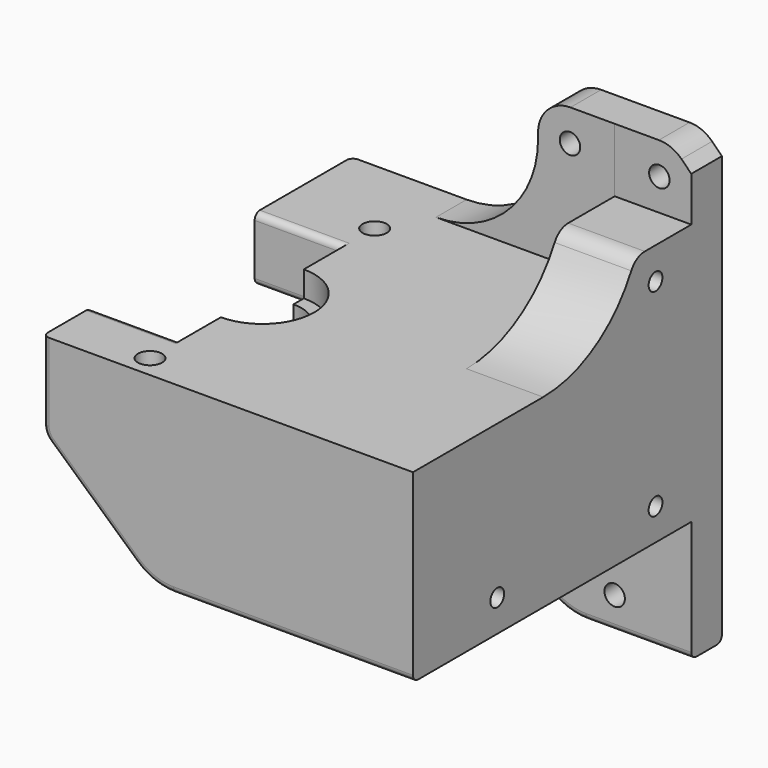
from build123d import *

# Parameters (mm, degrees)
PAD_DEPTH       = 70
POCKET_DEPTH    = 22
SKETCH008_W     = 61.659011
SKETCH008_H     = 41.462551
SKETCH008_W_2   = 60.331963
SKETCH008_H_2   = 13.684097
POCKET001_DEPTH = 76
SKETCH003_R     = 1.9
POCKET002_DEPTH = 12
POCKET003_DEPTH = 4
POCKET004_DEPTH = 6
SKETCH009_R     = 1.35
POCKET005_DEPTH = 10
SKETCH030_W     = 28.769002
SKETCH030_H     = 32
POCKET006_DEPTH = 48.001
SKETCH031_W     = 46.619307
SKETCH031_H     = 35.048725
POCKET007_DEPTH = 36
SKETCH032_R     = 1.9
POCKET008_DEPTH = 10
SKETCH013_R     = 1.9
POCKET009_DEPTH = 16
SKETCH010_R     = 1.6
POCKET010_DEPTH = 7
POCKET011_DEPTH = 60.501
POCKET012_DEPTH = 12.001
FILLET_R        = 3
CHAMFER_SIZE    = 3
FILLET001_R     = 5
FILLET002_R     = 9
FILLET003_R     = 0.7
FILLET004_R     = 1
FILLET005_R     = 1
FILLET006_R     = 3
FILLET007_R     = 1
FILLET008_R     = 1
CHAMFER001_SIZE = 13
FILLET009_R     = 1
FILLET010_R     = 16


with BuildPart() as part:
    # Sketch → Pad (new body)
    with BuildSketch(Plane.XY):
        Polygon((0, 0), (44, 0), (44, -60.5), (-14, -60.5), (-14, 0), align=None)
    extrude(amount=PAD_DEPTH)

    # Sketch002 (on Face7 of Pad) → Pocket (cut)
    with BuildSketch(Plane.XY.offset(70)):
        Polygon((32, -6), (32, -65.096024), (-40.783405, -65.096024), (-40.783405, 12.994774), (20, 12.994774), (20, -6), align=None)
    extrude(amount=-POCKET_DEPTH, mode=Mode.SUBTRACT)

    # Sketch008 (on Face3 of Pocket) → Pocket001 (cut)
    with BuildSketch(Plane.YZ.offset(44)):
        with Locations((-36.829505, -1.731275)):
            Rectangle(SKETCH008_W, SKETCH008_H)
        with Locations((-36.165982, 66.842049)):
            Rectangle(SKETCH008_W_2, SKETCH008_H_2)
    extrude(amount=-POCKET001_DEPTH, mode=Mode.SUBTRACT)

    # Sketch003 (on Face6 of Pocket001) → Pocket002 (cut)
    with BuildSketch(Plane.XY.offset(48)):
        with Locations((0, -13)):
            Circle(SKETCH003_R)
        with Locations((0, -57)):
            Circle(SKETCH003_R)
    extrude(amount=-POCKET002_DEPTH, mode=Mode.SUBTRACT)

    # Sketch004 (on Face6 of Pocket002) → Pocket003 (cut)
    with BuildSketch(Plane.XY.offset(48)):
        with BuildLine():
            ThreePointArc((0, -43.125), (8.125, -35), (0, -26.875))
            Line((-25, -26.875), (0, -26.875))
            Line((-25, -43.125), (-25, -26.875))
            Line((0, -43.125), (-25, -43.125))
        make_face()
    extrude(amount=-POCKET003_DEPTH, mode=Mode.SUBTRACT)

    # Sketch018 (on Face22 of Pocket003) → Pocket004 (cut)
    with BuildSketch(Plane.XY.offset(44)):
        with BuildLine():
            ThreePointArc((0, -41.1), (6.1, -35), (0, -28.9))
            Line((0, -28.9), (-50, -28.9))
            Line((-50, -41.1), (-50, -28.9))
            Line((0, -41.1), (-50, -41.1))
        make_face()
    extrude(amount=-POCKET004_DEPTH, mode=Mode.SUBTRACT)

    # Sketch009 (on Face3 of Pocket004) → Pocket005 (cut)
    with BuildSketch(Plane.YZ.offset(44)):
        with Locations((-44, 55)):
            Circle(SKETCH009_R)
        with Locations((-13, 24)):
            Circle(SKETCH009_R)
        with Locations((-13, 55)):
            Circle(SKETCH009_R)
        with Locations((-44, 24)):
            Circle(SKETCH009_R)
    extrude(amount=-POCKET005_DEPTH, mode=Mode.SUBTRACT)

    # Sketch030 (on Face6 of Pocket005) → Pocket006 (cut, through all)
    with BuildSketch(Plane.XY.offset(48)):
        with Locations((-14.384501, -35)):
            Rectangle(SKETCH030_W, SKETCH030_H)
    extrude(amount=-POCKET006_DEPTH, mode=Mode.SUBTRACT)

    # Sketch031 (on Face8 of Pocket006) → Pocket007 (cut)
    with BuildSketch(Plane(origin=(-14, 0, 0), x_dir=(0, -1, 0), z_dir=(-1, 0, 0))):
        with Locations((29.409654, 20.475638)):
            Rectangle(SKETCH031_W, SKETCH031_H)
    extrude(amount=-POCKET007_DEPTH, mode=Mode.SUBTRACT)

    # Sketch032 (on Face8 of Pocket007) → Pocket008 (cut)
    with BuildSketch(Plane(origin=(-14, 0, 0), x_dir=(0, -1, 0), z_dir=(-1, 0, 0))):
        with Locations((12, 44)):
            Circle(SKETCH032_R)
        with Locations((55, 44)):
            Circle(SKETCH032_R)
    extrude(amount=-POCKET008_DEPTH, mode=Mode.SUBTRACT)

    # Sketch013 (on Face21 of Pocket008) → Pocket009 (cut)
    with BuildSketch(Plane(origin=(0, 0, 0), x_dir=(0, -1, 0), z_dir=(-1, 0, 0))):
        with Locations((24, 42)):
            Circle(SKETCH013_R)
        with Locations((46, 42)):
            Circle(SKETCH013_R)
    extrude(amount=-POCKET009_DEPTH, mode=Mode.SUBTRACT)

    # Sketch010 (on Face1 of Pocket009) → Pocket010 (cut)
    with BuildSketch(Plane(origin=(0, 0, 0), x_dir=(-1, 0, 0), z_dir=(0, 1, 0))):
        with Locations((-32, 5)):
            Circle(SKETCH010_R)
        with Locations((-39, 65)):
            Circle(SKETCH010_R)
        with Locations((-25, 65)):
            Circle(SKETCH010_R)
    extrude(amount=-POCKET010_DEPTH, mode=Mode.SUBTRACT)

    # Sketch033 (on Face1 of Pocket010) → Pocket011 (cut, through all)
    with BuildSketch(Plane(origin=(0, 0, 0), x_dir=(-1, 0, 0), z_dir=(0, 1, 0))):
        Polygon((21.995766, 41.653675), (-34.908054, -9.830728), (21.995766, -12.411399), align=None)
    extrude(amount=-POCKET011_DEPTH, mode=Mode.SUBTRACT)

    # Sketch034 (on Face30 of Pocket011) → Pocket012 (cut, through all)
    with BuildSketch(Plane(origin=(32, 0, 0), x_dir=(0, -1, 0), z_dir=(-1, 0, 0))):
        with BuildLine():
            ThreePointArc((15.5, 67.5), (21.211418, 53.711418), (35, 48))
            Line((35, 48), (74.47, 48))
            Line((74.47, 67.5), (74.47, 48))
            Line((15.5, 67.5), (74.47, 67.5))
        make_face()
    extrude(amount=-POCKET012_DEPTH, mode=Mode.SUBTRACT)

    # Fillet
    fillet_edges = [part.edges().sort_by_distance(p)[0] for p in [
        (38, -17, 60),
    ]]
    fillet(fillet_edges, radius=FILLET_R)

    # Chamfer
    chamfer_edges = [part.edges().sort_by_distance(p)[0] for p in [
        (44, -3, 70),
        (20, -3, 70),
    ]]
    chamfer(chamfer_edges, length=CHAMFER_SIZE)

    # Fillet001
    fillet001_edges = [part.edges().sort_by_distance(p)[0] for p in [
        (41, -3, 70),
        (23, -3, 70),
        (20, -3, 67),
    ]]
    fillet(fillet001_edges, radius=FILLET001_R)

    # Fillet002
    fillet002_edges = [part.edges().sort_by_distance(p)[0] for p in [
        (24.042511, -3, 0),
        (3.042509, -56.609654, 19),
    ]]
    fillet(fillet002_edges, radius=FILLET002_R)

    # Fillet003
    fillet003_edges = [part.edges().sort_by_distance(p)[0] for p in [
        (4, -6.1, 38),
        (4, -52.719307, 38),
    ]]
    fillet(fillet003_edges, radius=FILLET003_R)

    # Fillet004
    fillet004_edges = [part.edges().sort_by_distance(p)[0] for p in [
        (-7, -19, 38),
        (-7, -51, 38),
    ]]
    fillet(fillet004_edges, radius=FILLET004_R)

    # Fillet005
    fillet005_edges = [part.edges().sort_by_distance(p)[0] for p in [
        (-7, -51, 48),
        (-7, -19, 48),
    ]]
    fillet(fillet005_edges, radius=FILLET005_R)

    # Fillet006
    fillet006_edges = [part.edges().sort_by_distance(p)[0] for p in [
        (-14, -56.609654, 34.419411),
        (-14, -3.05, 34.419411),
    ]]
    fillet(fillet006_edges, radius=FILLET006_R)

    # Fillet007
    fillet007_edges = [part.edges().sort_by_distance(p)[0] for p in [
        (35.754846, 0, 0),
    ]]
    fillet(fillet007_edges, radius=FILLET007_R)

    # Fillet008
    fillet008_edges = [part.edges().sort_by_distance(p)[0] for p in [
        (25.254845, -60.5, 19),
    ]]
    fillet(fillet008_edges, radius=FILLET008_R)

    # Chamfer001
    chamfer001_edges = [part.edges().sort_by_distance(p)[0] for p in [
        (22, -29.409654, 19),
    ]]
    chamfer(chamfer001_edges, length=CHAMFER001_SIZE)

    # Fillet009
    fillet009_edges = [part.edges().sort_by_distance(p)[0] for p in [
        (35.754846, -6, 0),
    ]]
    fillet(fillet009_edges, radius=FILLET009_R)

    # Fillet010
    fillet010_edges = [part.edges().sort_by_distance(p)[0] for p in [
        (20, -3, 48),
    ]]
    fillet(fillet010_edges, radius=FILLET010_R)


solid = part.part
